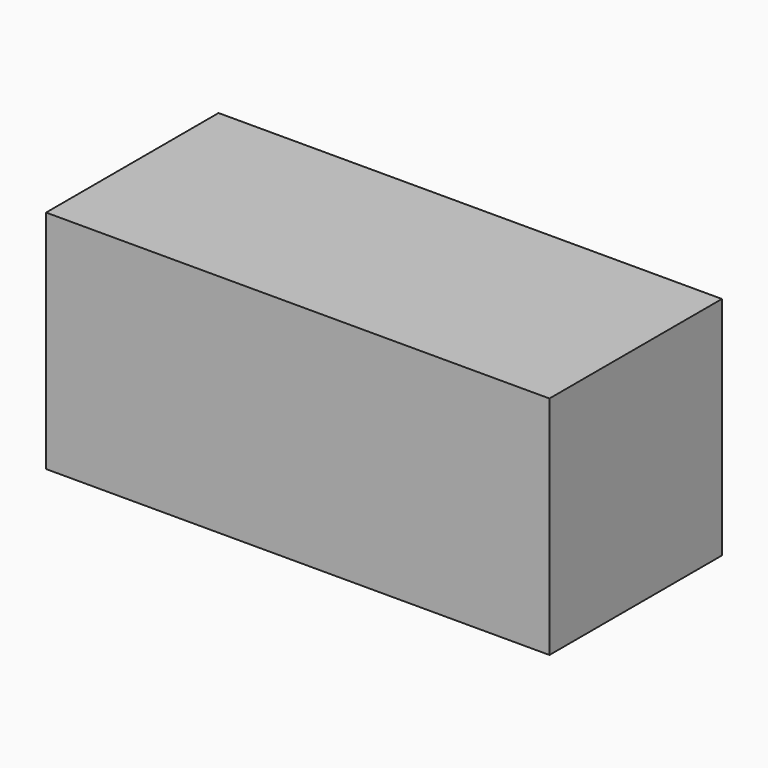
from build123d import *

# Parameters (mm, degrees)
F0_W     = 57.017289
F0_H     = 28.369613
F1_DEPTH = 29.718
F2_T     = -1.5


with BuildPart() as f1:
    # F0 (on Top) → F1 (new body)
    with BuildSketch(Plane.XY):
        with Locations((-4.612352, 14.184806)):
            Rectangle(F0_W, F0_H)
    extrude(amount=-F1_DEPTH)

    # F2
    f2_openings = [f1.faces().sort_by_distance(p)[0] for p in [
        (-4.612353, 28.369613, -14.859),
    ]]
    offset(amount=F2_T, openings=f2_openings)

    # F3: F1 across plane


with BuildPart() as f1_1:
    add(f1.part)
    add(f1.part.mirror(Plane.YZ))


solid = f1_1.part
